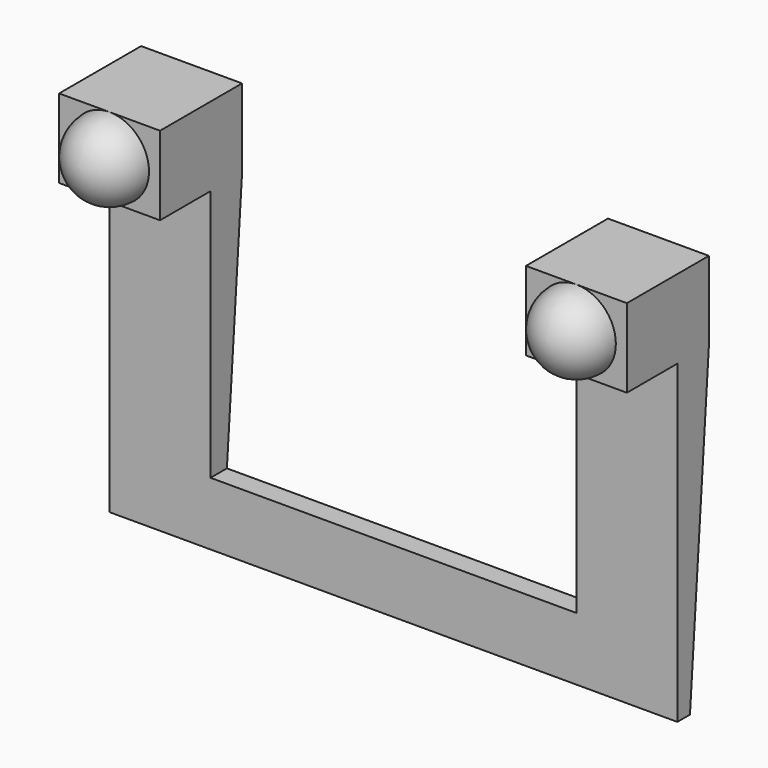
from build123d import *

# Parameters (mm, degrees)
PAD_DEPTH    = 9
SKETCH001_W  = 10.5
SKETCH001_H  = 11.6
POCKET_DEPTH = 5


with BuildPart() as part:
    # Sketch → Pad (new body, symmetric)
    with BuildSketch(Plane.YZ):
        Polygon((-4, 22.5), (-4, 20), (-4.75, 10), (-5.25, 10), (-5.25, 20), (-7.25, 20), (-7.25, 22.5), align=None)
    extrude(amount=PAD_DEPTH, both=True)

    # Sketch001 (on Face6 of Pad) → Pocket (cut)
    with BuildSketch(Plane(origin=(0, -7.25, 0), x_dir=(0, 0, -1), z_dir=(0, -1, 0))):
        with Locations((-17.25, 0)):
            Rectangle(SKETCH001_W, SKETCH001_H)
    extrude(amount=-POCKET_DEPTH, mode=Mode.SUBTRACT)

    # Sphere → Sphere (revolve)
    with BuildSketch(Plane(origin=(7.4, -7.25, 21.25), x_dir=(0, 0, 1), z_dir=(-1, 0, 0))):
        with BuildLine():
            ThreePointArc((0, -1.25), (1.25, 0), (0, 1.25))
            Line((0, 1.25), (0, -1.25))
        make_face()
    revolve(axis=Axis((7.4, -7.25, 21.25), (0, 1, 0)))

    # Sphere001 → Sphere001 (revolve)
    with BuildSketch(Plane(origin=(-7.4, -7.25, 21.25), x_dir=(0, 0, 1), z_dir=(-1, 0, 0))):
        with BuildLine():
            ThreePointArc((0, -1.25), (1.25, 0), (0, 1.25))
            Line((0, 1.25), (0, -1.25))
        make_face()
    revolve(axis=Axis((-7.4, -7.25, 21.25), (0, 1, 0)))


solid = part.part
